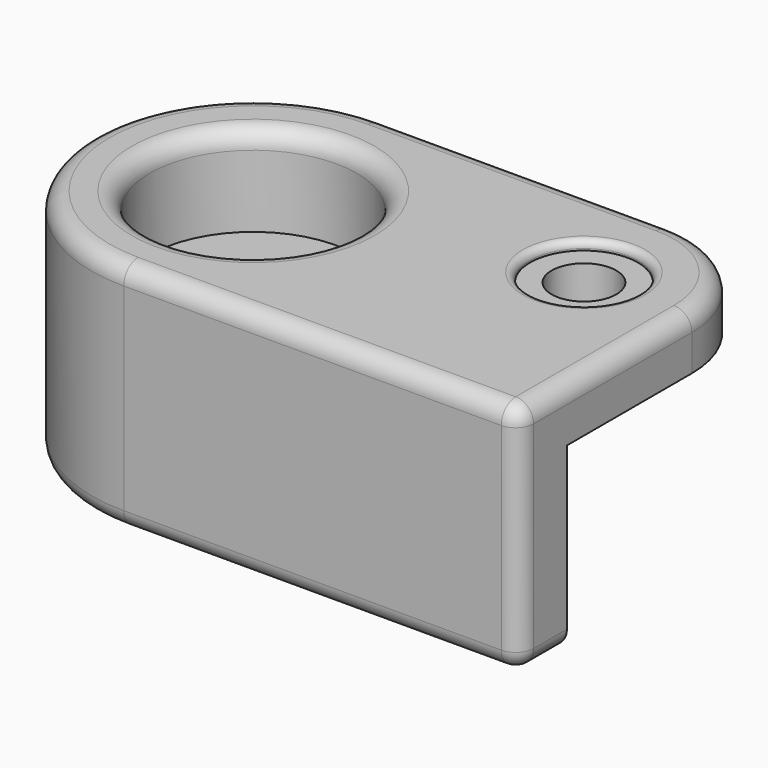
from build123d import *

# Parameters (mm, degrees)
CYLINDER020_R     = 1.8
CYLINDER020_DEPTH = 7
CYLINDER021_R     = 3
CYLINDER021_DEPTH = 7
PAD_DEPTH         = 30
BOX002_W          = 10
BOX002_H          = 10
BOX002_DEPTH      = 10
BOX003_W          = 17
BOX003_H          = 10
BOX003_DEPTH      = 10
CYLINDER018_R     = 5.75
CYLINDER018_DEPTH = 10
CYLINDER017_R     = 3
CYLINDER017_DEPTH = 10
CYLINDER016_R     = 5.75
CYLINDER016_DEPTH = 10
CYLINDER015_R     = 3
CYLINDER015_DEPTH = 10
BOX_W             = 22
BOX_H             = 18
BOX_DEPTH         = 13
CYLINDER_R        = 9
CYLINDER_DEPTH    = 13
FILLET_R          = 6
FILLET001_R       = 1
FILLET002_R       = 1
FILLET003_R       = 1
CYLINDER019_R     = 3
CYLINDER019_DEPTH = 3
FILLET004_R       = 0.4


with BuildPart() as m3cut:
    # Cylinder020 → Cylinder020 (new body)
    with BuildSketch(Plane(origin=(-4.5, -22, 62.5), x_dir=(1, 0, 0), z_dir=(0, 0, 1))):
        Circle(CYLINDER020_R)
    extrude(amount=CYLINDER020_DEPTH)


with BuildPart() as fusion009:
    # Cylinder021 → Cylinder021 (new body)
    with BuildSketch(Plane(origin=(-4.5, -22, 67.5), x_dir=(1, 0, 0), z_dir=(0, 0, 1))):
        Circle(CYLINDER021_R)
    extrude(amount=CYLINDER021_DEPTH)

    # Fusion009: union m3Cut
    add(m3cut.part)


with BuildPart() as body:
    # Sketch → Pad (new body)
    with BuildSketch(Plane.XY):
        Polygon((-15.594093, -16.374565), (-15.071085, -20.857502), (-14.364655, -25.305099), (-13.862565, -26.78348), (-13.081532, -28.094496), (-12.161032, -29.126572), (-10.822123, -30.019178), (-9.315848, -30.577057), (-7.725893, -30.688633), (7.476312, -30.688633), (-15.876865, 6.281797), (-15.876865, -11.843776), align=None)
    extrude(amount=PAD_DEPTH)

    # Box002 → Box002 (join)
    with BuildSketch(Plane.XY):
        with Locations((5, 5)):
            Rectangle(BOX002_W, BOX002_H)
    extrude(amount=BOX002_DEPTH)


with BuildPart() as body_1:
    # Body placement: moved
    add(body.part.moved(Location((0, 0, 35))))


with BuildPart() as firstcuts:
    # Box003 → Box003 (new body)
    with BuildSketch(Plane(origin=(-10, -24, 55), x_dir=(1, 0, 0), z_dir=(0, 0, 1))):
        with Locations((8.5, 5)):
            Rectangle(BOX003_W, BOX003_H)
    extrude(amount=BOX003_DEPTH)

    # Fusion007: union Body
    add(body_1.part)


with BuildPart() as obj1:
    # Cylinder018 → Cylinder018 (new body)
    with BuildSketch(Plane(origin=(-23, 0, 69), x_dir=(1, 0, 0), z_dir=(0, 0, 1))):
        Circle(CYLINDER018_R)
    extrude(amount=CYLINDER018_DEPTH)


with BuildPart() as fusion005:
    # Cylinder017 → Cylinder017 (new body)
    with BuildSketch(Plane(origin=(-23, 0, 65), x_dir=(1, 0, 0), z_dir=(0, 0, 1))):
        Circle(CYLINDER017_R)
    extrude(amount=CYLINDER017_DEPTH)

    # Fusion005: union obj1
    add(obj1.part)


with BuildPart() as fusion005_1:
    # Fusion005 placement: moved
    add(fusion005.part.moved(Location((2.5, -25, -19.5))))


with BuildPart() as obj2:
    # Cylinder016 → Cylinder016 (new body)
    with BuildSketch(Plane(origin=(-23, 0, 69), x_dir=(1, 0, 0), z_dir=(0, 0, 1))):
        Circle(CYLINDER016_R)
    extrude(amount=CYLINDER016_DEPTH)


with BuildPart() as antennacuts:
    # Cylinder015 → Cylinder015 (new body)
    with BuildSketch(Plane(origin=(-23, 0, 65), x_dir=(1, 0, 0), z_dir=(0, 0, 1))):
        Circle(CYLINDER015_R)
    extrude(amount=CYLINDER015_DEPTH)

    # Fusion004: union obj2
    add(obj2.part)


with BuildPart() as antennacuts_1:
    # Fusion004 placement: moved
    add(antennacuts.part.moved(Location((2.5, -25, -6))))

    # Fusion006: union Fusion005
    add(fusion005_1.part)


with BuildPart() as cube:
    # Box → Box (new body)
    with BuildSketch(Plane(origin=(-20.5, -34, 56), x_dir=(1, 0, 0), z_dir=(0, 0, 1))):
        with Locations((11, 9)):
            Rectangle(BOX_W, BOX_H)
    extrude(amount=BOX_DEPTH)


with BuildPart() as cut001:
    # Cylinder → Cylinder (new body)
    with BuildSketch(Plane(origin=(-20.5, -25, 56), x_dir=(1, 0, 0), z_dir=(0, 0, 1))):
        Circle(CYLINDER_R)
    extrude(amount=CYLINDER_DEPTH)

    # Fusion: union Cube
    add(cube.part)


with BuildPart() as cut001_1:
    # Fusion placement: moved
    add(cut001.part.moved(Location((0, 0, -1))))

    # Fillet
    fillet_edges = [cut001_1.edges().sort_by_distance(p)[0] for p in [
        (1.5, -16, 61.5),
    ]]
    fillet(fillet_edges, radius=FILLET_R)

    # Fillet001
    fillet001_edges = [cut001_1.edges().sort_by_distance(p)[0] for p in [
        (-12.5, -16, 55),
        (-9.5, -34, 55),
        (1.5, -28, 55),
        (-12.5, -16, 68),
        (1.5, -28, 68),
        (1.5, -34, 61.5),
        (-9.5, -34, 68),
        (-29.5, -25, 55),
        (-29.5, -25, 68),
    ]]
    fillet(fillet001_edges, radius=FILLET001_R)

    # Cut: cut antennaCuts
    add(antennacuts_1.part, mode=Mode.SUBTRACT)

    # Fillet002
    fillet002_edges = [cut001_1.edges().sort_by_distance(p)[0] for p in [
        (-16.434136, -29.065864, 68),
        (-16.434136, -20.934136, 68),
    ]]
    fillet(fillet002_edges, radius=FILLET002_R)

    # Fillet003
    fillet003_edges = [cut001_1.edges().sort_by_distance(p)[0] for p in [
        (-16.434136, -29.065864, 55),
        (-16.434136, -20.934136, 55),
        (-26.25, -25, 55),
    ]]
    fillet(fillet003_edges, radius=FILLET003_R)

    # Cut001: cut firstCuts
    add(firstcuts.part, mode=Mode.SUBTRACT)


with BuildPart() as fillet004:
    # Cylinder019 → Cylinder019 (new body)
    with BuildSketch(Plane(origin=(-4.5, -22, 62.5), x_dir=(1, 0, 0), z_dir=(0, 0, 1))):
        Circle(CYLINDER019_R)
    extrude(amount=CYLINDER019_DEPTH)

    # Fusion008: union Cut001
    add(cut001_1.part)

    # Cut002: cut Fusion009
    add(fusion009.part, mode=Mode.SUBTRACT)

    # Fillet004
    fillet004_edges = [fillet004.edges().sort_by_distance(p)[0] for p in [
        (-7.5, -22, 68),
    ]]
    fillet(fillet004_edges, radius=FILLET004_R)


solid = fillet004.part
